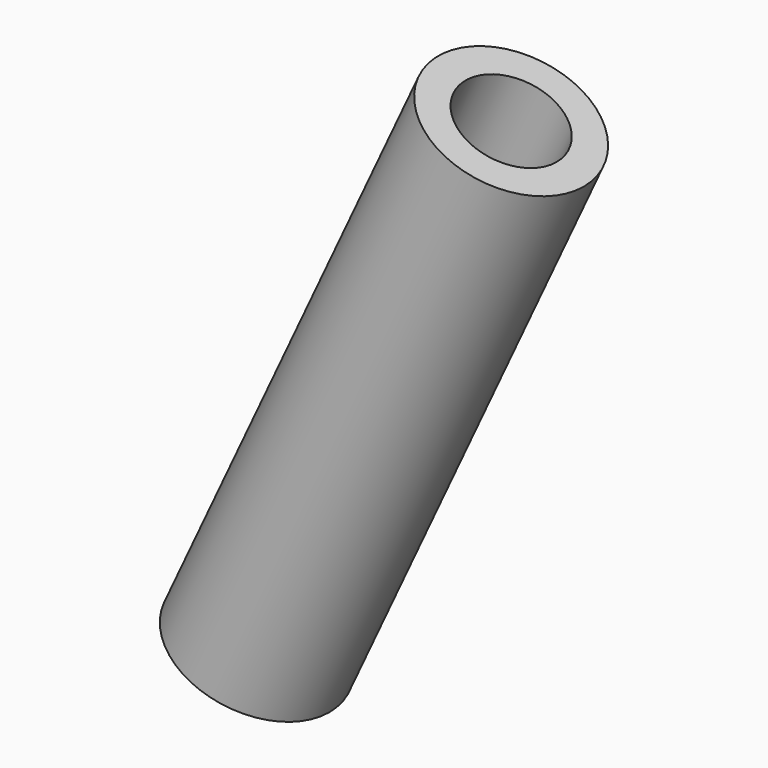
from build123d import *

# Parameters (mm, degrees)
CYLINDER054_R          = 2.5
CYLINDER054_DEPTH      = 30
CYLINDER053_R          = 4
CYLINDER053_DEPTH      = 30
CUT056_PLACEMENT_ANGLE = 25


with BuildPart() as cylinder054:
    # Cylinder054 → Cylinder054 (new body)
    with BuildSketch(Plane.XY):
        Circle(CYLINDER054_R)
    extrude(amount=CYLINDER054_DEPTH)


with BuildPart() as obj1:
    # Cylinder053 → Cylinder053 (new body)
    with BuildSketch(Plane.XY):
        Circle(CYLINDER053_R)
    extrude(amount=CYLINDER053_DEPTH)

    # Cut056: cut Cylinder054
    add(cylinder054.part, mode=Mode.SUBTRACT)


with BuildPart() as obj1_1:
    # Cut056 placement: moved
    add(obj1.part.moved(Location((-1.218022, 50.6, -43.017699))).rotate(Axis((-1.218022, 50.6, -43.017699), (0, 1, 0)), CUT056_PLACEMENT_ANGLE))


solid = obj1_1.part
